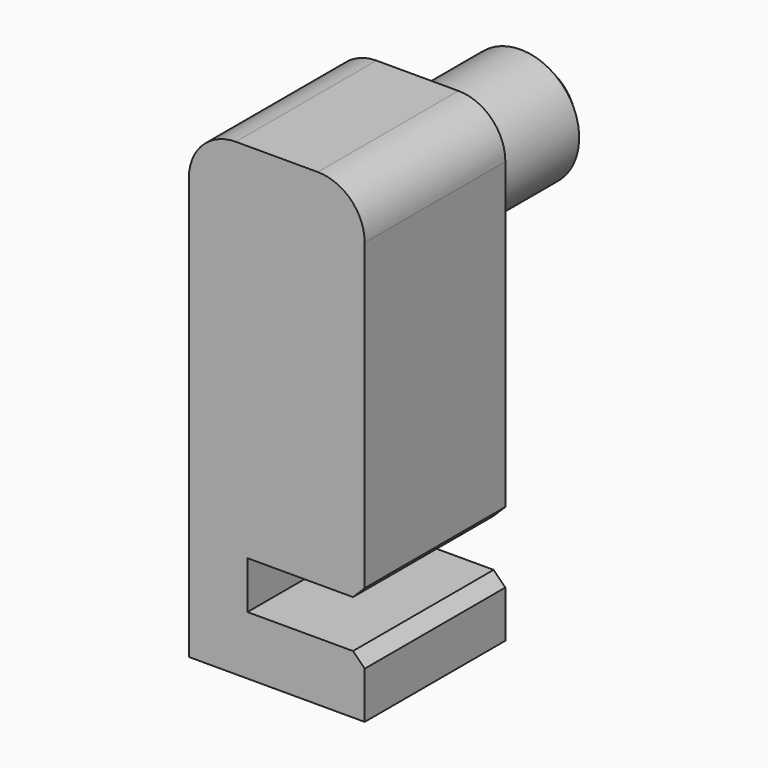
from build123d import *

# Parameters (mm, degrees)
F0_W     = 30
F0_H     = 30
F1_DEPTH = 80
F2_W     = 30
F2_H     = 8.1
F3_DEPTH = 20
F4_R     = 8
F5_SIZE  = 2
F6_R     = 10
F7_DEPTH = 25
F8_SIZE  = 3


with BuildPart() as f1:
    # F0 (on Top) → F1 (new body)
    with BuildSketch(Plane.XY):
        Rectangle(F0_W, F0_H)
    extrude(amount=F1_DEPTH)

    # F2 (on face) → F3 (cut)
    with BuildSketch(Plane.YZ.offset(15)):
        with Locations((0, 14.05)):
            Rectangle(F2_W, F2_H)
    extrude(amount=-F3_DEPTH, mode=Mode.SUBTRACT)

    # F4
    f4_edges = [f1.edges().sort_by_distance(p)[0] for p in [
        (15, 0, 80),
        (-15, 0, 80),
    ]]
    fillet(f4_edges, radius=F4_R)

    # F5
    f5_edges = [f1.edges().sort_by_distance(p)[0] for p in [
        (15, 0, 18.1),
        (15, 0, 10),
    ]]
    chamfer(f5_edges, length=F5_SIZE)

    # F6 (on face) → F7 (join)
    with BuildSketch(Plane(origin=(0, 15, 0), x_dir=(-1, 0, 0), z_dir=(0, 1, 0))):
        with Locations((0, 65)):
            Circle(F6_R)
    extrude(amount=F7_DEPTH)

    # F8
    f8_edges = [f1.edges().sort_by_distance(p)[0] for p in [
        (10, 40, 65),
    ]]
    chamfer(f8_edges, length=F8_SIZE)


solid = f1.part
